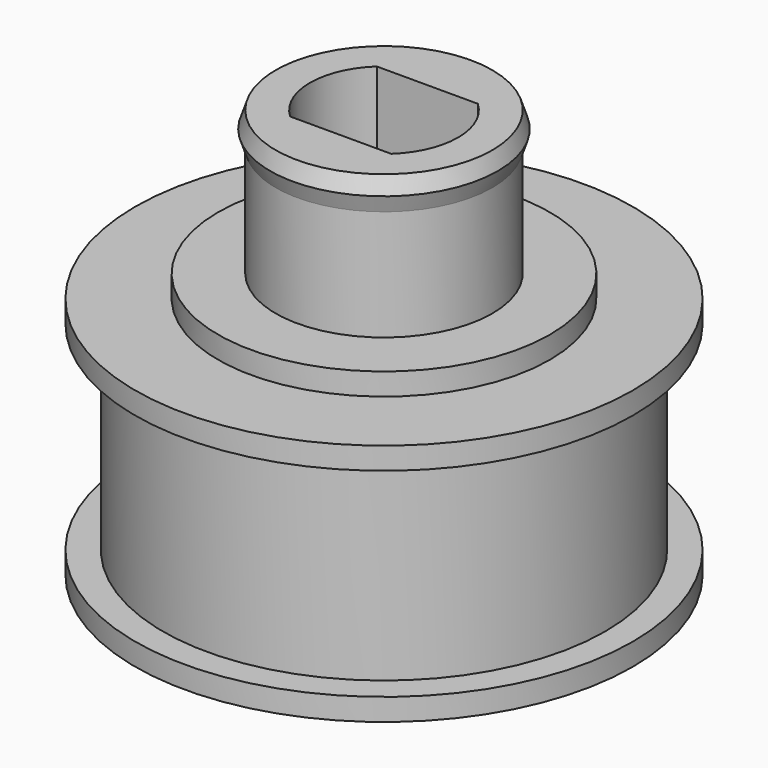
from build123d import *

# Parameters (mm, degrees)
F2_R         = 10
F2_R_2       = 7.5
F2_R_3       = 4.9
F3_DEPTH     = 11
F4_DEPTH     = 9
F5_DEPTH     = 18.5
F2_R_4       = 11.25
F10_DEPTH    = 1
F11_START    = 9
F10_FACE_R   = 11.25
F10_FACE_R_2 = 10
F11_DEPTH    = 1
F12_DEPTH    = 12


with BuildPart() as f3:
    # F2 (on Top) → F3 (new body)
    with BuildSketch(Plane.XY):
        Circle(F2_R)
        Circle(F2_R_2, mode=Mode.SUBTRACT)
        Circle(F2_R_2)
        Circle(F2_R_3, mode=Mode.SUBTRACT)
        Circle(F2_R_3)
        with BuildLine():
            ThreePointArc((-2.2847319318, -2.45), (-3.35, 0), (-2.2847319318, 2.45))
            Line((-2.2847319318, 2.45), (2.2847319318, 2.45))
            ThreePointArc((2.2847319318, 2.45), (3.35, 0), (2.2847319318, -2.45))
            Line((2.2847319318, -2.45), (-2.2847319318, -2.45))
        make_face(mode=Mode.SUBTRACT)
    extrude(amount=F3_DEPTH)

    # F2 (on Top) → F4 (join)
    with BuildSketch(Plane.XY):
        Circle(F2_R_2)
        Circle(F2_R_3, mode=Mode.SUBTRACT)
        Circle(F2_R_3)
        with BuildLine():
            ThreePointArc((-2.2847319318, -2.45), (-3.35, 0), (-2.2847319318, 2.45))
            Line((-2.2847319318, 2.45), (2.2847319318, 2.45))
            ThreePointArc((2.2847319318, 2.45), (3.35, 0), (2.2847319318, -2.45))
            Line((2.2847319318, -2.45), (-2.2847319318, -2.45))
        make_face(mode=Mode.SUBTRACT)
    extrude(amount=F4_DEPTH)

    # F2 (on Top) → F5 (join)
    with BuildSketch(Plane.XY):
        Circle(F2_R_3)
        with BuildLine():
            ThreePointArc((-2.2847319318, -2.45), (-3.35, 0), (-2.2847319318, 2.45))
            Line((-2.2847319318, 2.45), (2.2847319318, 2.45))
            ThreePointArc((2.2847319318, 2.45), (3.35, 0), (2.2847319318, -2.45))
            Line((2.2847319318, -2.45), (-2.2847319318, -2.45))
        make_face(mode=Mode.SUBTRACT)
    extrude(amount=F5_DEPTH)

    # F6 (on Front) → F7 (revolve)
    with BuildSketch(Plane.XZ):
        Polygon((5.15, 17.75), (4.9, 18.5), (4.9, 17), align=None)
    revolve(axis=Axis((0, 0, 8.7542282417), (0, 0, 1)))

    # F2 (on Top) → F10 (join)
    with BuildSketch(Plane.XY):
        Circle(F2_R_4)
        Circle(F2_R, mode=Mode.SUBTRACT)
    extrude(amount=F10_DEPTH)

    # F2 (on Top) + F10_face (on face) → F11 (join)
    with BuildSketch(Plane.XY.offset(F11_START)):
        Circle(F2_R)
        Circle(F2_R_2, mode=Mode.SUBTRACT)
    with BuildSketch(Plane.XY.offset(1).offset(F11_START)):
        Circle(F10_FACE_R)
        Circle(F10_FACE_R_2, mode=Mode.SUBTRACT)
    extrude(amount=F11_DEPTH)

    # F2 (on Top) → F12 (join)
    with BuildSketch(Plane.XY):
        Circle(F2_R_2)
        Circle(F2_R_3, mode=Mode.SUBTRACT)
    extrude(amount=F12_DEPTH)


solid = f3.part
